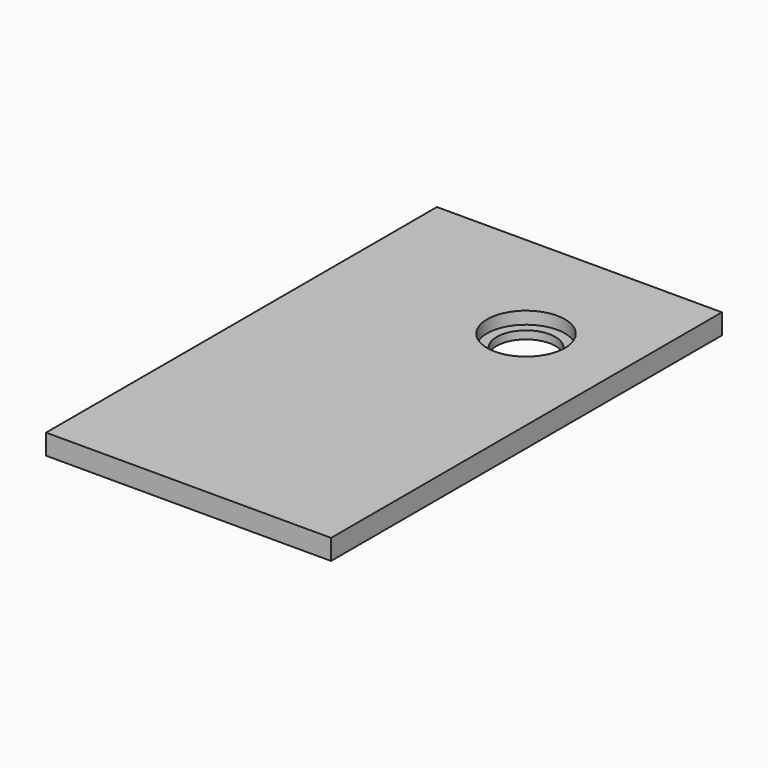
from build123d import *

# Parameters (mm, degrees)
F0_W           = 88.9
F0_H           = 152.4
F1_DEPTH       = 6.35
F3_D           = 18.288
F3_CBORE_D     = 24.257
F3_CBORE_DEPTH = 3.8608


with BuildPart() as f1:
    # F0 (on Top) → F1 (new body)
    with BuildSketch(Plane.XY):
        Rectangle(F0_W, F0_H)
    extrude(amount=F1_DEPTH)

    # F3 (through all)
    with Locations(Plane.XY.offset(6.35)):
        with Locations((14.224, 37.592)):
            CounterBoreHole(F3_D / 2, F3_CBORE_D / 2, F3_CBORE_DEPTH)


solid = f1.part
